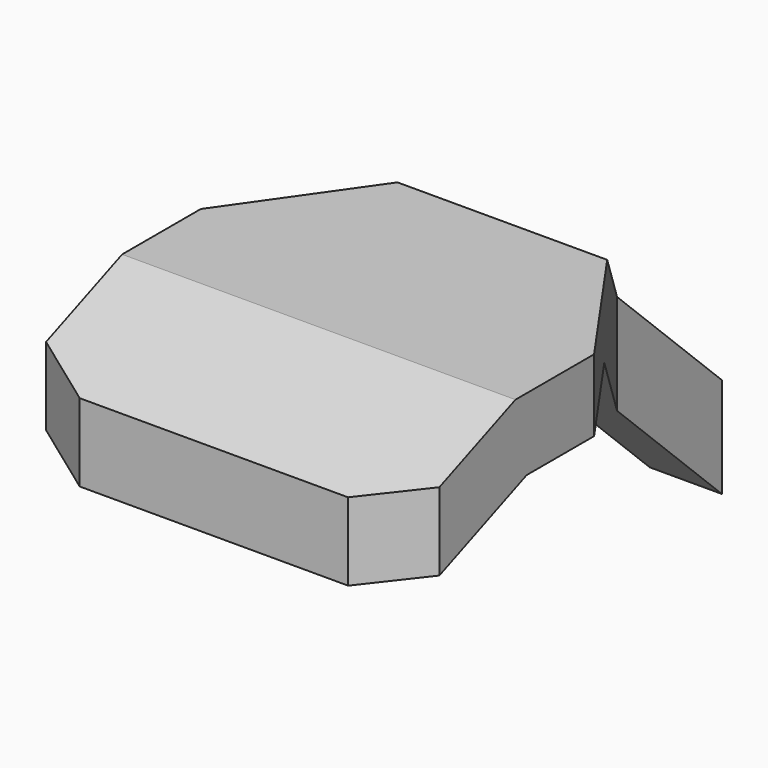
from build123d import *

# Parameters (mm, degrees)
F1_DEPTH = 127
F3_DEPTH = 152.401


with BuildPart() as f1:
    # F0 (on Top) → F1 (new body)
    with BuildSketch(Plane.XY):
        Polygon((76.2, 0), (13.97, 88.9), (13.97, 139.7), (-13.97, 139.7), (-13.97, 88.9), (-76.2, 0), (-76.2, -74.93), (-52.00325, -88.9), (52.00325, -88.9), (76.2, -74.93), align=None)
    extrude(amount=-F1_DEPTH)

    # F2 (on face) → F3 (intersect, through all)
    with BuildSketch(Plane.YZ.offset(76.2)):
        Polygon((50.8, 0), (0, 0), (-38.1, 0), (-88.9, -20.524532), (-88.9, -50.658793), (-32.669014, -27.94), (39.511507, -27.94), (139.7, -124.690903), (139.7, -85.849732), align=None)
    extrude(amount=-F3_DEPTH, mode=Mode.INTERSECT)


solid = f1.part
